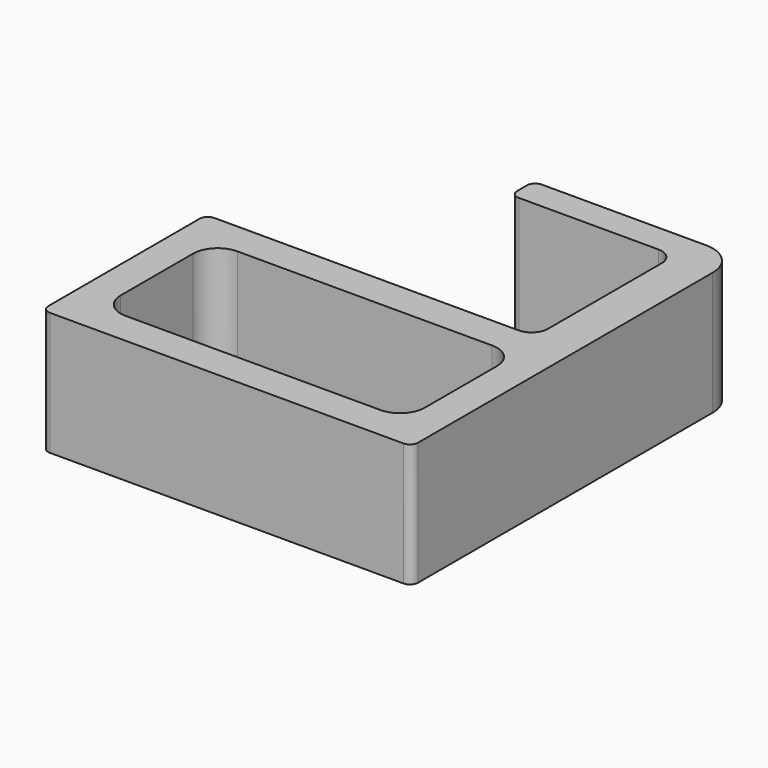
from build123d import *

# Parameters (mm, degrees)
F1_DEPTH = 15


with BuildPart() as f1:
    # F0 (on Top) → F1 (new body)
    with BuildSketch(Plane.XY):
        with BuildLine():
            Line((1, 0), (0, 0))
            Line((0, 0), (-19, 0))
            ThreePointArc((-19, 0), (-19.707107, -0.292893), (-20, -1))
            Line((-20, -1), (-20, -2.5))
            ThreePointArc((-20, -2.5), (-19.707107, -3.207107), (-19, -3.5))
            Line((-19, -3.5), (-2, -3.5))
            ThreePointArc((-2, -3.5), (-0.585786, -4.085786), (0, -5.5))
            Line((0, -5.5), (0, -22.8))
            ThreePointArc((0, -22.8), (-0.585786, -24.214214), (-2, -24.8))
            Line((-2, -24.8), (-39, -24.8))
            ThreePointArc((-39, -24.8), (-39.707107, -25.092893), (-40, -25.8))
            Line((-40, -25.8), (-40, -48.8))
            ThreePointArc((-40, -48.8), (-39.707107, -49.507107), (-39, -49.8))
            Line((-39, -49.8), (4, -49.8))
            ThreePointArc((4, -49.8), (4.707107, -49.507107), (5, -48.8))
            Line((5, -48.8), (5, -4))
            ThreePointArc((5, -4), (3.828427, -1.171573), (1, 0))
        make_face()
        with BuildLine():
            ThreePointArc((-36, -31.8), (-35.12132, -29.67868), (-33, -28.8))
            Line((-33, -28.8), (-2, -28.8))
            ThreePointArc((-2, -28.8), (0.12132, -29.67868), (1, -31.8))
            Line((1, -31.8), (1, -42.8))
            ThreePointArc((1, -42.8), (0.12132, -44.92132), (-2, -45.8))
            Line((-2, -45.8), (-33, -45.8))
            ThreePointArc((-33, -45.8), (-35.12132, -44.92132), (-36, -42.8))
            Line((-36, -42.8), (-36, -31.8))
        make_face(mode=Mode.SUBTRACT)
    extrude(amount=F1_DEPTH)


solid = f1.part
